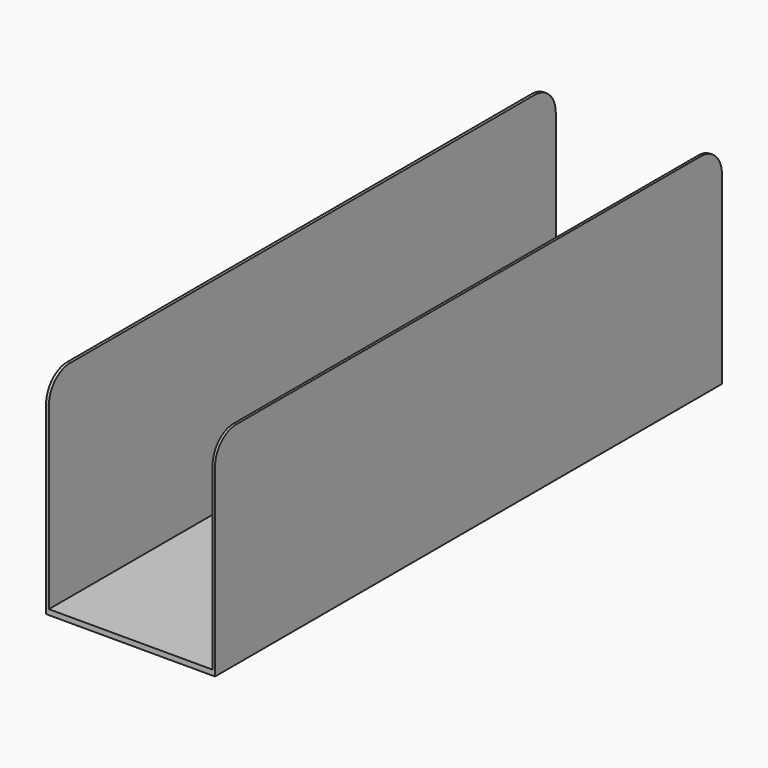
from build123d import *

# Parameters (mm, degrees)
F0_W     = 32
F0_H     = 40
F1_DEPTH = 120
F2_W     = 31
F2_H     = 39
F3_DEPTH = 120
F4_R     = 5
F5_R     = 5
F6_R     = 5
F7_R     = 5


with BuildPart() as f1:
    # F0 (on Front) → F1 (new body)
    with BuildSketch(Plane.XZ):
        with Locations((-36.2070729025, 39.3427484608)):
            Rectangle(F0_W, F0_H)
    extrude(amount=F1_DEPTH)

    # F2 (on face) → F3 (cut)
    with BuildSketch(Plane.XZ.offset(120)):
        with Locations((-36.1735836864, 39.8427484608)):
            Rectangle(F2_W, F2_H)
    extrude(amount=-F3_DEPTH, mode=Mode.SUBTRACT)

    # F4
    f4_edges = [f1.edges().sort_by_distance(p)[0] for p in [
        (-20.440328, -120, 59.342748),
    ]]
    fillet(f4_edges, radius=F4_R)

    # F5
    f5_edges = [f1.edges().sort_by_distance(p)[0] for p in [
        (-51.940328, -120, 59.342748),
    ]]
    fillet(f5_edges, radius=F5_R)

    # F6
    f6_edges = [f1.edges().sort_by_distance(p)[0] for p in [
        (-20.440328, 0, 59.342748),
    ]]
    fillet(f6_edges, radius=F6_R)

    # F7
    f7_edges = [f1.edges().sort_by_distance(p)[0] for p in [
        (-51.940328, 0, 59.342748),
    ]]
    fillet(f7_edges, radius=F7_R)


solid = f1.part
